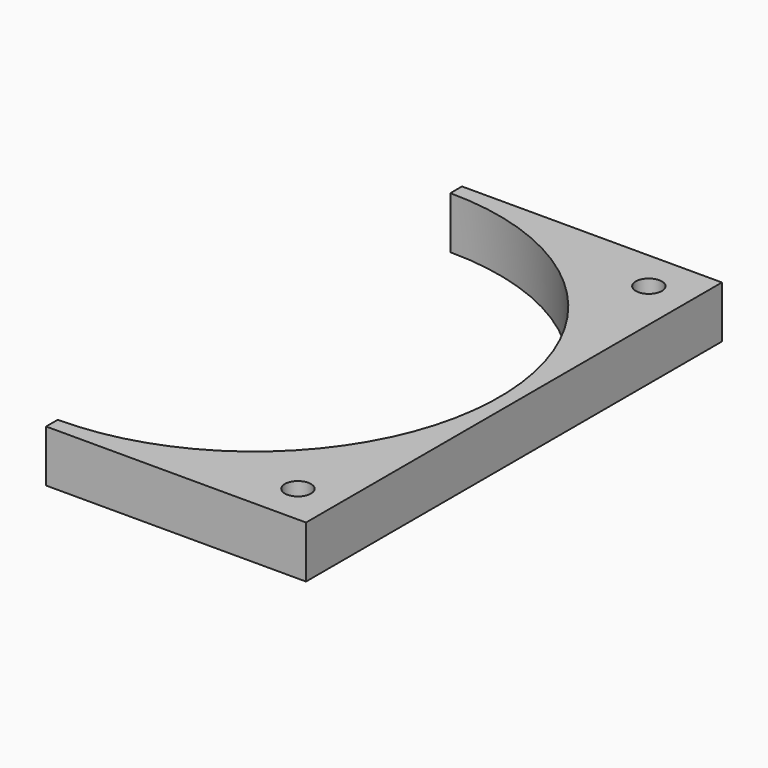
from build123d import *

# Parameters (mm, degrees)
F0_R     = 3.81
F1_DEPTH = 7.0866
F2_R     = 1.778
F2_R_2   = 3.81
F3_DEPTH = 3.048
F4_DEPTH = 25.4


with BuildPart() as f1:
    # F0 (on Top) → F1 (new body)
    with BuildSketch(Plane.XY):
        with BuildLine():
            Line((35.4203, 1.9812), (35.4203, 0))
            Line((35.4203, 0), (70.8406, 0))
            Line((70.8406, 0), (70.8406, 70.8406))
            Line((70.8406, 70.8406), (35.4203, 70.8406))
            Line((35.4203, 70.8406), (35.4203, 68.8594))
            ThreePointArc((35.4203, 68.8594), (68.8594, 35.4203), (35.4203, 1.9812))
        make_face()
        with Locations((65.308762, 5.531838)):
            Circle(F0_R, mode=Mode.SUBTRACT)
        with Locations((65.308762, 65.308762)):
            Circle(F0_R, mode=Mode.SUBTRACT)
    extrude(amount=F1_DEPTH)

    # F2 (on face) → F3 (join)
    with BuildSketch(Plane.XY.offset(7.0866)):
        with Locations((65.308762, 5.531838)):
            Circle(F2_R)
        with Locations((65.308762, 65.308762)):
            Circle(F2_R)
        with Locations((65.308762, 65.308762)):
            Circle(F2_R_2)
        with Locations((65.308762, 65.308762)):
            Circle(F2_R, mode=Mode.SUBTRACT)
        with Locations((65.308762, 5.531838)):
            Circle(F2_R_2)
        with Locations((65.308762, 5.531838)):
            Circle(F2_R, mode=Mode.SUBTRACT)
    extrude(amount=-F3_DEPTH)

    # F2 (on face) → F4 (cut)
    with BuildSketch(Plane.XY.offset(7.0866)):
        with Locations((65.308762, 5.531838)):
            Circle(F2_R)
        with Locations((65.308762, 65.308762)):
            Circle(F2_R)
    extrude(amount=-F4_DEPTH, mode=Mode.SUBTRACT)


solid = f1.part
